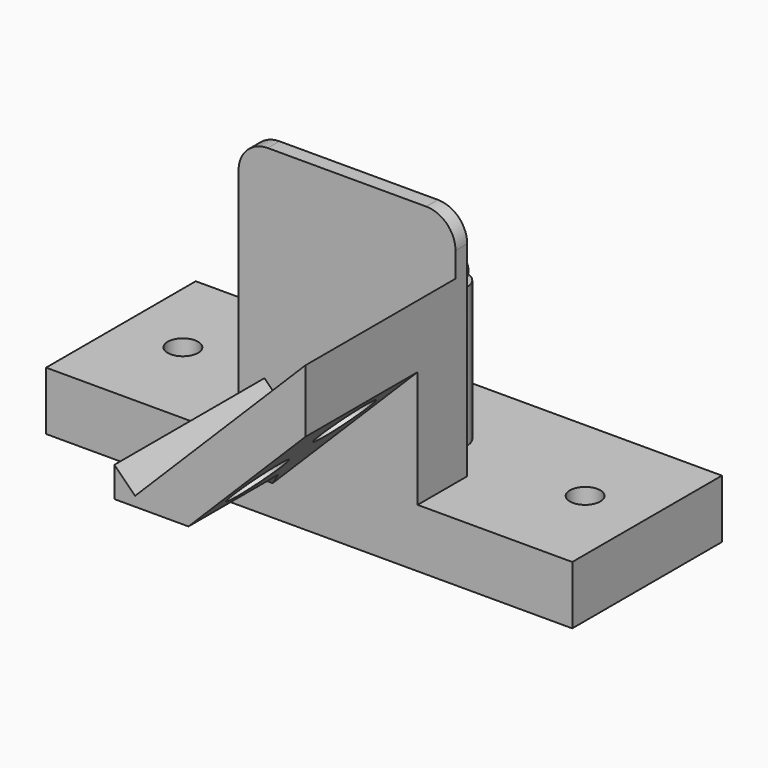
from build123d import *

# Parameters (mm, degrees)
SKETCH_W          = 57.15
SKETCH_H          = 20.32
SKETCH_R          = 1.651
PAD_DEPTH         = 3.175
SKETCH001_R       = 1.905
PAD001_DEPTH      = 15.175
SKETCH002_R       = 0.9525
POCKET_DEPTH      = 15.875
PAD002_DEPTH      = 15.24
PAD002_DEPTH_BACK = 5.1402
FILLET_R          = 1.27
CHAMFER_SIZE      = 12.7
CHAMFER001_SIZE   = 3.048
SKETCH004_R       = 3.2131
POCKET001_DEPTH   = 3.81762
SKETCH005_W       = 23.563626
SKETCH005_H       = 25.4
PAD003_DEPTH      = 1.5875
FILLET001_R       = 3.175


with BuildPart() as ball1:
    # Sphere → Sphere (revolve)
    with BuildSketch(Plane(origin=(34.925, 11.16, 19.304), x_dir=(1, 0, 0), z_dir=(0, -1, 0))):
        with BuildLine():
            ThreePointArc((0, -1.5875), (1.5875, 0), (0, 1.5875))
            Line((0, 1.5875), (0, -1.5875))
        make_face()
    revolve(axis=Axis((34.925, 11.16, 19.304), (0, 0, 1)))


with BuildPart() as ball002:
    # Sphere001 → Sphere001 (revolve)
    with BuildSketch(Plane(origin=(22.225, 11.16, 19.304), x_dir=(1, 0, 0), z_dir=(0, -1, 0))):
        with BuildLine():
            ThreePointArc((0, -1.5875), (1.5875, 0), (0, 1.5875))
            Line((0, 1.5875), (0, -1.5875))
        make_face()
    revolve(axis=Axis((22.225, 11.16, 19.304), (0, 0, 1)))


with BuildPart() as fusion:
    # Sketch → Pad (new body, symmetric)
    with BuildSketch(Plane.XY):
        with Locations((28.575, 10.16)):
            Rectangle(SKETCH_W, SKETCH_H)
        with Locations((6.731, 10.16)):
            Circle(SKETCH_R, mode=Mode.SUBTRACT)
        with Locations((50.419, 10.16)):
            Circle(SKETCH_R, mode=Mode.SUBTRACT)
    extrude(amount=PAD_DEPTH, both=True)

    # Sketch001 (on Face8 of Pad) → Pad001 (join)
    with BuildSketch(Plane.XY.offset(3.175)):
        with Locations((22.225, 11.16)):
            Circle(SKETCH001_R)
        with Locations((34.925, 11.16)):
            Circle(SKETCH001_R)
    extrude(amount=PAD001_DEPTH)

    # Sketch002 (on Face4 of Pad001) → Pocket (cut)
    with BuildSketch(Plane(origin=(0, 0, -3.175), x_dir=(1, 0, 0), z_dir=(0, 0, -1))):
        with Locations((22.225, -11.16)):
            Circle(SKETCH002_R)
        with Locations((34.925, -11.16)):
            Circle(SKETCH002_R)
    extrude(amount=-POCKET_DEPTH, mode=Mode.SUBTRACT)

    # Sketch003 (on Face6 of Pocket) → Pad002 (join, two sides)
    with BuildSketch(Plane.XZ) as pad002_sk:
        Polygon((40.356813, 3.175), (40.356813, 22.711586), (21.857486, 4.212258), (19.612422, 6.457322), (19.612422, 3.175), align=None)
    extrude(amount=PAD002_DEPTH)
    extrude(pad002_sk.sketch, amount=-PAD002_DEPTH_BACK)

    # Fillet
    fillet_edges = [fusion.edges().sort_by_distance(p)[0] for p in [
        (33.9725, 11.16, -3.175),
        (21.2725, 11.16, -3.175),
    ]]
    fillet(fillet_edges, radius=FILLET_R)

    # Chamfer
    chamfer_edges = [fusion.edges().sort_by_distance(p)[0] for p in [
        (40.356813, -7.62, 3.175),
    ]]
    chamfer(chamfer_edges, length=CHAMFER_SIZE)

    # Chamfer001
    chamfer001_edges = [fusion.edges().sort_by_distance(p)[0] for p in [
        (23.634617, 0, 3.175),
    ]]
    chamfer(chamfer001_edges, length=CHAMFER001_SIZE)

    # Sketch004 (on Face2 of Chamfer001) → Pocket001 (cut)
    with BuildSketch(Plane(origin=(12.240907, 0, -12.240907), x_dir=(0, 1, 0), z_dir=(0.707107, 0, -0.707107))):
        with Locations((-10.16, 26.67)):
            Circle(SKETCH004_R)
        with Locations((-5.08, 34.29)):
            Circle(SKETCH004_R)
    extrude(amount=-POCKET001_DEPTH, mode=Mode.SUBTRACT)

    # Sketch005 (on Face15 of Pocket001) → Pad003 (join)
    with BuildSketch(Plane(origin=(0, 5.1402, 0), x_dir=(-1, 0, 0), z_dir=(0, 1, 0))):
        with Locations((-28.575, 15.875)):
            Rectangle(SKETCH005_W, SKETCH005_H)
    extrude(amount=PAD003_DEPTH)

    # Fillet001
    fillet001_edges = [fusion.edges().sort_by_distance(p)[0] for p in [
        (40.356813, 5.93395, 28.575),
        (16.793187, 5.93395, 28.575),
    ]]
    fillet(fillet001_edges, radius=FILLET001_R)

    # Fusion: union Ball1, Ball002
    add(ball1.part)
    add(ball002.part)


solid = fusion.part
